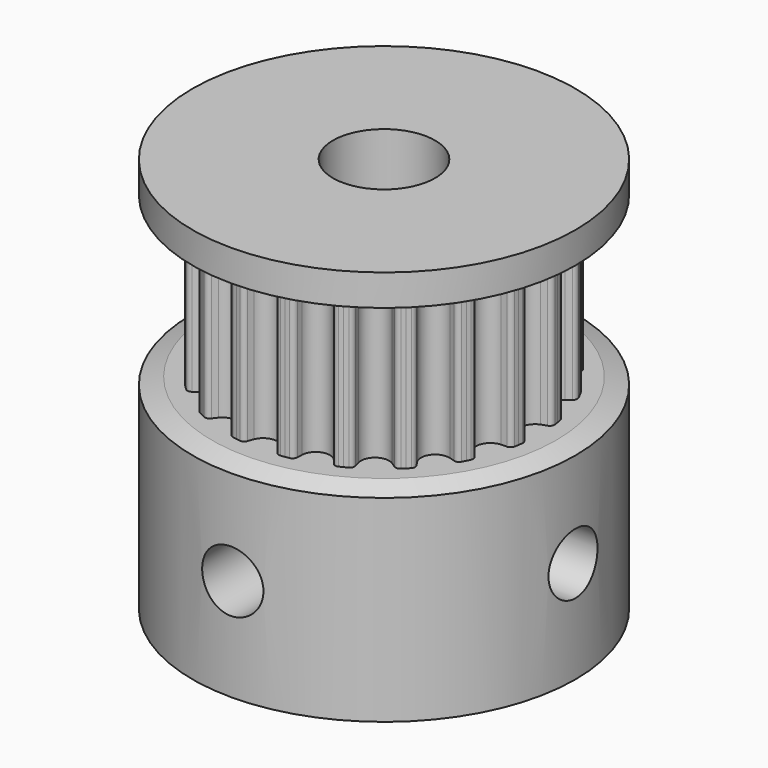
from build123d import *

# Parameters (mm, degrees)
F4_DEPTH  = 3
F5_COUNT  = 20
F9_D      = 4
F12_D     = 2.4
F12_DEPTH = 7.501
F13_D     = 2.4
F13_DEPTH = 7.5010001


with BuildPart() as f4:
    # F3 (on Top) → F4 (new body, symmetric)
    with BuildSketch(Plane.XY):
        with BuildLine():
            Line((0.8388325323, 5.2961801716), (0.9561583811, 6.0369464271))
            ThreePointArc((0.9561583811, 6.0369464271), (0.8769247137, 6.0489638832), (0.7975402939, 6.0599414595))
            ThreePointArc((0.7975402939, 6.0599414595), (0.673583382, 6.0329713178), (0.5951684067, 5.9332527328))
            ThreePointArc((0.5951684067, 5.9332527328), (0.5578349377, 5.8252126761), (0.5180414063, 5.7180543045))
            ThreePointArc((0.5180414063, 5.7180543045), (0.3142454474, 5.4597320978), (0, 5.3621977237))
            ThreePointArc((0, 5.3621977237), (-0.3142454474, 5.4597320978), (-0.5180414063, 5.7180543045))
            ThreePointArc((-0.5180414063, 5.7180543045), (-0.5578349377, 5.8252126761), (-0.5951684067, 5.9332527328))
            ThreePointArc((-0.5951684067, 5.9332527328), (-0.673583382, 6.0329713178), (-0.7975402939, 6.0599414595))
            ThreePointArc((-0.7975402939, 6.0599414595), (-0.8769247137, 6.0489638832), (-0.9561583811, 6.0369464271))
            Line((-0.9561583811, 6.0369464271), (-0.8388325323, 5.2961801716))
            Line((-0.8388325323, 5.2961801716), (0, 0))
            Line((0, 0), (0.8388325323, 5.2961801716))
        make_face()
        with BuildLine():
            Line((0.8388325323, 5.2961801716), (0.9561583811, 6.0369464271))
            ThreePointArc((0.9561583811, 6.0369464271), (0.8769247137, 6.0489638832), (0.7975402939, 6.0599414595))
            ThreePointArc((0.7975402939, 6.0599414595), (0.673583382, 6.0329713178), (0.5951684067, 5.9332527328))
            ThreePointArc((0.5951684067, 5.9332527328), (0.5578349377, 5.8252126761), (0.5180414063, 5.7180543045))
            ThreePointArc((0.5180414063, 5.7180543045), (0.3142454474, 5.4597320978), (0, 5.3621977237))
            ThreePointArc((0, 5.3621977237), (-0.3142454474, 5.4597320978), (-0.5180414063, 5.7180543045))
            ThreePointArc((-0.5180414063, 5.7180543045), (-0.5578349377, 5.8252126761), (-0.5951684067, 5.9332527328))
            ThreePointArc((-0.5951684067, 5.9332527328), (-0.673583382, 6.0329713178), (-0.7975402939, 6.0599414595))
            ThreePointArc((-0.7975402939, 6.0599414595), (-0.8769247137, 6.0489638832), (-0.9561583811, 6.0369464271))
            Line((-0.9561583811, 6.0369464271), (-0.8388325323, 5.2961801716))
            Line((-0.8388325323, 5.2961801716), (0, 0))
            Line((0, 0), (0.8388325323, 5.2961801716))
        make_face()
        with BuildLine():
            Line((0.8388325323, 5.2961801716), (0.9561583811, 6.0369464271))
            ThreePointArc((0.9561583811, 6.0369464271), (0.8769247137, 6.0489638832), (0.7975402939, 6.0599414595))
            ThreePointArc((0.7975402939, 6.0599414595), (0.673583382, 6.0329713178), (0.5951684067, 5.9332527328))
            ThreePointArc((0.5951684067, 5.9332527328), (0.5578349377, 5.8252126761), (0.5180414063, 5.7180543045))
            ThreePointArc((0.5180414063, 5.7180543045), (0.3142454474, 5.4597320978), (0, 5.3621977237))
            ThreePointArc((0, 5.3621977237), (-0.3142454474, 5.4597320978), (-0.5180414063, 5.7180543045))
            ThreePointArc((-0.5180414063, 5.7180543045), (-0.5578349377, 5.8252126761), (-0.5951684067, 5.9332527328))
            ThreePointArc((-0.5951684067, 5.9332527328), (-0.673583382, 6.0329713178), (-0.7975402939, 6.0599414595))
            ThreePointArc((-0.7975402939, 6.0599414595), (-0.8769247137, 6.0489638832), (-0.9561583811, 6.0369464271))
            Line((-0.9561583811, 6.0369464271), (-0.8388325323, 5.2961801716))
            Line((-0.8388325323, 5.2961801716), (0, 0))
            Line((0, 0), (0.8388325323, 5.2961801716))
        make_face()
    extrude(amount=F4_DEPTH, both=True)

    # F5: F4 ×20 about axis
    f5_axis = Axis((0, 0, 0), (0, 0, -1))


with BuildPart() as f4_1:
    add(f4.part)
    for i in range(1, F5_COUNT):
        add(f4.part.rotate(f5_axis, i * 360 / F5_COUNT))

    # F6 (on Front) → F7 (revolve)
    with BuildSketch(Plane.XZ):
        Polygon((6.7421977237, -3), (0, -3), (0, -11), (7.5, -11), (7.5, -3.275817472), align=None)
        Polygon((0, 4.5), (0, 3), (6.7421977237, 3), (7.5, 3.275817472), (7.5, 4.5), align=None)
    revolve(axis=Axis((0, 0, -7), (0, 0, 1)))

    # F9 (through all)
    with Locations(Plane(origin=(0, 0, -11), x_dir=(1, 0, 0), z_dir=(0, 0, -1))):
        with Locations((0, 0)):
            Hole(F9_D / 2)

    # F12 (through all, one way)
    with BuildSketch(Plane(origin=(0, 0, 0), x_dir=(1, 0, 0), z_dir=(0, 1, 0))):
        with Locations((0, 7)):
            Circle(F12_D / 2)
    extrude(amount=-F12_DEPTH, mode=Mode.SUBTRACT)

    # F13 (through all, one way)
    with BuildSketch(Plane(origin=(0, 0, 0), x_dir=(0, 1, 0), z_dir=(-1, 0, 0))):
        with Locations((0, 7)):
            Circle(F13_D / 2)
    extrude(amount=-F13_DEPTH, mode=Mode.SUBTRACT)


solid = f4_1.part
